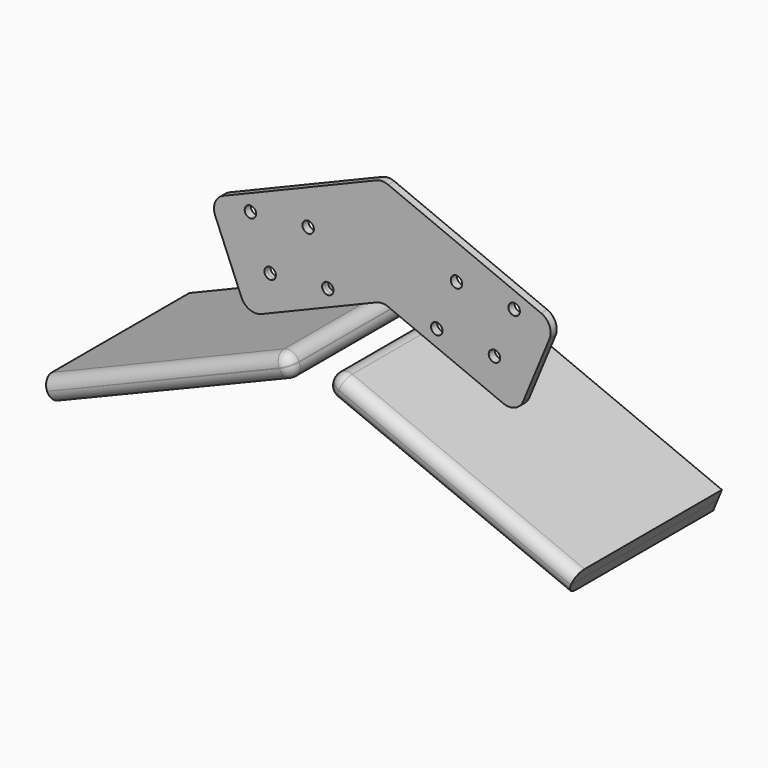
from build123d import *

# Parameters (mm, degrees)
F0_R     = 4.7625
F1_DEPTH = 3.175
F2_R     = 12.7
F3_DEPTH = 76.2
F4_R     = 9.525
F4_2_R   = 9.525


with BuildPart() as f1:
    # F0 (on Front) → F1 (new body, symmetric)
    with BuildSketch(Plane.XZ):
        Polygon((-40.4165609485, -16.7410876894), (0, 0), (0, 89.3514761341), (-143.8659498691, 29.7602485347), (-112.2754325273, -46.5060068741), align=None)
        with Locations((-93.2699265011, -9.4226090129)):
            Circle(F0_R, mode=Mode.SUBTRACT)
        with BuildLine():
            ThreePointArc((-40.5141405396, -5.0078176265), (-41.316766511, -7.6537208612), (-43.4541106929, -9.4077939001))
            ThreePointArc((-43.4541106929, -9.4077939001), (-49.6766168132, -6.8303474731), (-47.0991703862, -0.6078413529))
            ThreePointArc((-47.0991703862, -0.6078413529), (-42.6307373048, -1.0479435979), (-40.5141405396, -5.0078176265))
        make_face(mode=Mode.SUBTRACT)
        with Locations((-109.6726951208, 30.1771774494)):
            Circle(F0_R, mode=Mode.SUBTRACT)
        with BuildLine():
            ThreePointArc((-56.9169091593, 34.5919688358), (-57.7195351307, 31.946065601), (-59.8568793127, 30.1919925622))
            ThreePointArc((-59.8568793127, 30.1919925622), (-65.6392831879, 37.2378720706), (-56.9169091593, 34.5919688358))
        make_face(mode=Mode.SUBTRACT)
        Polygon((0, 89.3514761341), (0, 0), (112.2754325273, -46.5060068741), (143.8659498691, 29.7602485347), align=None)
        with Locations((45.2766405396, -5.0078176265)):
            Circle(F0_R, mode=Mode.SUBTRACT)
        with Locations((93.2699265011, -9.4226090129)):
            Circle(F0_R, mode=Mode.SUBTRACT)
        with Locations((61.6794091593, 34.5919688358)):
            Circle(F0_R, mode=Mode.SUBTRACT)
        with Locations((109.6726951208, 30.1771774494)):
            Circle(F0_R, mode=Mode.SUBTRACT)
    extrude(amount=F1_DEPTH, both=True)

    # F2
    f2_edges = [f1.edges().sort_by_distance(p)[0] for p in [
        (-143.86595, 0, 29.760249),
        (0, 0, 89.351476),
        (0, 0, 0),
        (112.275433, 0, -46.506007),
        (143.86595, 0, 29.760249),
        (-112.275433, 0, -46.506007),
    ]]
    fillet(f2_edges, radius=F2_R)


with BuildPart() as f1b:
    # F0 (on Front) → F1, piece 2 (new body, symmetric)
    with BuildSketch(Plane.XZ):
        Polygon((-12.1426400097, -31.1194647295), (-19.6315676376, -12.9711623258), (-221.4519007896, -96.56788148), (-217.8068410963, -105.3678340271), (-214.1852704835, -114.177479383), align=None)
    extrude(amount=F1_DEPTH, both=True)

    # F3 (add, symmetric): a face of the model
    f3_faces = [f1b.faces().sort_by_distance(p)[0] for p in [
        (-116.342910997, -3.175, -63.4985719637),
    ]]
    extrude(f3_faces, amount=F3_DEPTH, both=True)

    # F4#2
    f4_2_edges = [f1b.edges().sort_by_distance(p)[0] for p in [
        (-12.14264, -3.175, -31.119465),
        (-120.541734, -79.375, -54.769522),
        (-113.163955, -79.375, -72.648472),
        (-19.631568, -3.175, -12.971162),
        (-15.887104, -79.375, -22.045314),
    ]]
    fillet(f4_2_edges, radius=F4_2_R)


with BuildPart() as f1c:
    # F0 (on Front) → F1, piece 3 (new body, symmetric)
    with BuildSketch(Plane.XZ):
        Polygon((221.4519007896, -96.56788148), (19.6315676376, -12.9711623258), (12.1426400097, -31.1194647295), (214.1852704835, -114.177479383), (217.8068410963, -105.3678340271), align=None)
    extrude(amount=F1_DEPTH, both=True)

    # F3#2 (add, symmetric): a face of the model
    f3_2_faces = [f1c.faces().sort_by_distance(p)[0] for p in [
        (116.342910997, -3.175, -63.4985719637),
    ]]
    extrude(f3_2_faces, amount=F3_DEPTH, both=True)

    # F4
    f4_edges = [f1c.edges().sort_by_distance(p)[0] for p in [
        (19.631568, -3.175, -12.971162),
        (12.14264, -3.175, -31.119465),
        (120.541734, -79.375, -54.769522),
        (113.163955, -79.375, -72.648472),
        (15.887104, -79.375, -22.045314),
    ]]
    fillet(f4_edges, radius=F4_R)


solid = Compound([f1.part, f1b.part, f1c.part])
